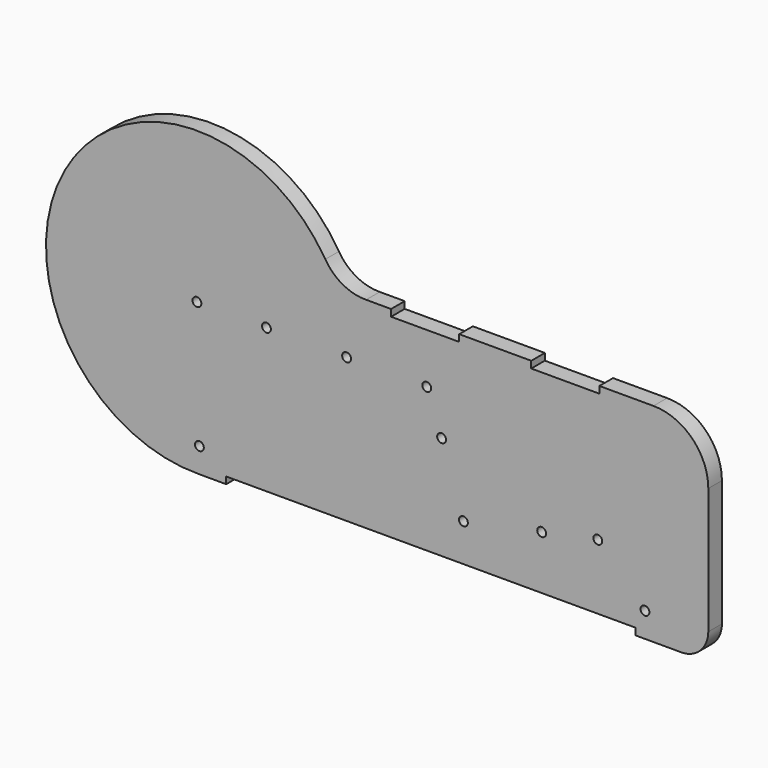
from build123d import *

# Parameters (mm, degrees)
F0_R     = 1.651769
F0_R_2   = 1.651
F1_DEPTH = 6.35


with BuildPart() as f1:
    # F0 (on Front) → F1 (new body)
    with BuildSketch(Plane.XZ):
        with BuildLine():
            ThreePointArc((-39.466924, 29.565635), (-136.690809, 26.990845), (-86.406432, -56.259349))
            Line((-86.406432, -56.259349), (-76.403461, -56.259349))
            Line((-76.403461, -56.259349), (-76.403461, -53.719349))
            Line((-76.403461, -53.719349), (76.194473, -53.719349))
            Line((76.194473, -53.719349), (76.194473, -56.259349))
            Line((76.194473, -56.259349), (93.265243, -56.259349))
            ThreePointArc((93.265243, -56.259349), (100.360061, -53.320579), (103.29883, -46.225761))
            Line((103.29883, -46.225761), (103.29883, -10.334933))
            Line((103.29883, -10.334933), (103.29883, 0.796146))
            ThreePointArc((103.29883, 0.796146), (97.314725, 15.243055), (82.867816, 21.227161))
            Line((82.867816, 21.227161), (62.702781, 21.227161))
            Line((62.702781, 21.227161), (62.702781, 18.687161))
            Line((62.702781, 18.687161), (37.302781, 18.687161))
            Line((37.302781, 18.687161), (37.302781, 21.227161))
            Line((37.302781, 21.227161), (10.451351, 21.227161))
            Line((10.451351, 21.227161), (10.451351, 18.687161))
            Line((10.451351, 18.687161), (-14.948649, 18.687161))
            Line((-14.948649, 18.687161), (-14.948649, 21.227161))
            Line((-14.948649, 21.227161), (-24.264277, 21.227161))
            ThreePointArc((-24.264277, 21.227161), (-32.965301, 23.391432), (-39.466924, 29.565635))
        make_face()
        with Locations((-86.406432, -46.991911)):
            Circle(F0_R, mode=Mode.SUBTRACT)
        with Locations((12.01965, -39.663293)):
            Circle(F0_R_2, mode=Mode.SUBTRACT)
        with Locations((41.18428, -33.696234)):
            Circle(F0_R_2, mode=Mode.SUBTRACT)
        with Locations((79.683274, -46.991911)):
            Circle(F0_R_2, mode=Mode.SUBTRACT)
        with Locations((62.11388, -29.394633)):
            Circle(F0_R_2, mode=Mode.SUBTRACT)
        with Locations((3.885278, -15.038646)):
            Circle(F0_R_2, mode=Mode.SUBTRACT)
        with Locations((-87.331186, 0)):
            Circle(F0_R_2, mode=Mode.SUBTRACT)
        with Locations((-61.397786, 0)):
            Circle(F0_R_2, mode=Mode.SUBTRACT)
        with Locations((-31.527386, 0)):
            Circle(F0_R_2, mode=Mode.SUBTRACT)
        with Locations((-1.656986, 0)):
            Circle(F0_R_2, mode=Mode.SUBTRACT)
    extrude(amount=F1_DEPTH)


solid = f1.part
